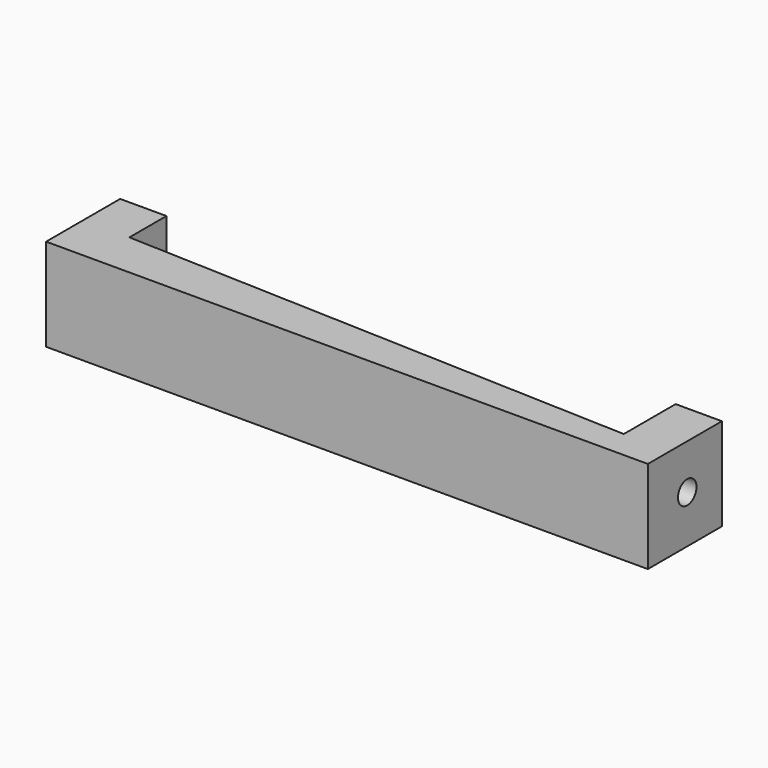
from build123d import *

# Parameters (mm, degrees)
F1_DEPTH = 25.4
F3_D     = 6.35


with BuildPart() as f1:
    # F0 (on Top) → F1 (new body)
    with BuildSketch(Plane.XY):
        Polygon((-94.18092, 50.48936), (-106.88092, 50.48936), (-106.88092, 25.08936), (58.21908, 25.08936), (58.21908, 50.48936), (45.51908, 50.48936), (45.51908, 32.70936), (-94.18092, 37.78936), align=None)
    extrude(amount=F1_DEPTH)

    # F3 (through all)
    with Locations(Plane.YZ.offset(58.21908)):
        with Locations((38.594734, 13.081748)):
            Hole(F3_D / 2)


solid = f1.part
